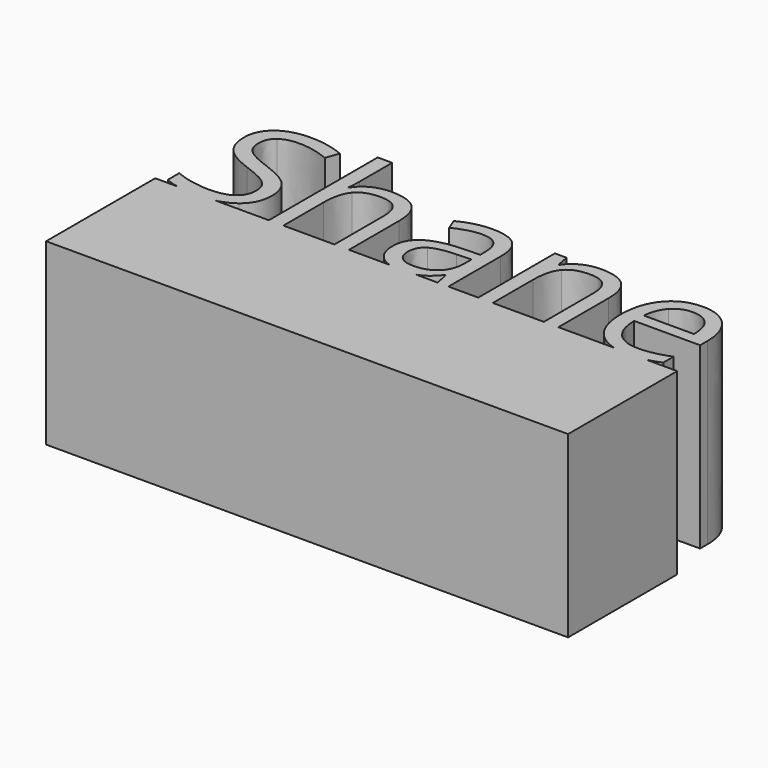
from build123d import *

# Parameters (mm, degrees)
F1_DEPTH = 25.4


with BuildPart() as f1:
    # F0 (on Top) → F1 (new body)
    with BuildSketch(Plane.XY):
        with BuildLine():
            Line((-26.5469699674, 38.6548305432), (-26.5469699674, 19.3547997624))
            Line((-26.5469699674, 19.3547997624), (-24.4871887674, 19.3547997624))
            Line((-24.4871887674, 19.3547997624), (-24.4871887674, 26.4628308396))
            add(Edge.make_bspline(
                [(-23.5009544164, 30.2807682468), (-24.4871887674, 29.1139557751), (-24.4871887674, 26.4628308396)],
                knots=[0, 0, 0, 1, 1, 1], degree=2))
            add(Edge.make_bspline(
                [(-20.3715951175, 31.4475807184), (-22.5147200654, 31.4475807184), (-23.5009544164, 30.2807682468)],
                knots=[0, 0, 0, 1, 1, 1], degree=2))
            add(Edge.make_bspline(
                [(-18.0002670501, 30.6280338633), (-18.7563139067, 31.4475807184), (-20.3715951175, 31.4475807184)],
                knots=[0, 0, 0, 1, 1, 1], degree=2))
            add(Edge.make_bspline(
                [(-17.2442201935, 28.1495495486), (-17.2442201935, 29.8084870083), (-18.0002670501, 30.6280338633)],
                knots=[0, 0, 0, 1, 1, 1], degree=2))
            Line((-17.2442201935, 28.1495495486), (-17.2442201935, 19.3547997624))
            Line((-17.2442201935, 19.3547997624), (-15.1844389936, 19.3547997624))
            Line((-15.1844389936, 19.3547997624), (-15.1844389936, 28.2209870469))
            add(Edge.make_bspline(
                [(-16.4326108382, 31.9853463304), (-15.1844389936, 30.8006744842), (-15.1844389936, 28.2209870469)],
                knots=[0, 0, 0, 1, 1, 1], degree=2))
            add(Edge.make_bspline(
                [(-20.1731576223, 33.1700181766), (-17.6807826829, 33.1700181766), (-16.4326108382, 31.9853463304)],
                knots=[0, 0, 0, 1, 1, 1], degree=2))
            add(Edge.make_bspline(
                [(-22.7330013101, 32.6064556903), (-21.6098450874, 33.1700181766), (-20.1731576223, 33.1700181766)],
                knots=[0, 0, 0, 1, 1, 1], degree=2))
            add(Edge.make_bspline(
                [(-24.463376268, 31.0626119778), (-23.8561575328, 32.042893204), (-22.7330013101, 32.6064556903)],
                knots=[0, 0, 0, 1, 1, 1], degree=2))
            Line((-24.463376268, 31.0626119778), (-24.586407515, 31.0626119778))
            add(Edge.make_bspline(
                [(-24.4871887674, 32.8128306852), (-24.4871887674, 31.7571432109), (-24.586407515, 31.0626119778)],
                knots=[0, 0, 0, 1, 1, 1], degree=2))
            Line((-24.4871887674, 32.8128306852), (-24.4871887674, 38.6548305432))
            Line((-24.4871887674, 38.6548305432), (-26.5469699674, 38.6548305432))
        make_face()
        with BuildLine():
            Line((-24.4871887674, 19.3547997624), (-26.5469699674, 19.3547997624))
            Line((-26.5469699674, 19.3547997624), (-34.0584343692, 19.3547997624))
            add(Edge.make_bspline(
                [(-34.0584343692, 19.3547997624), (-35.1123368285, 19.1047685184), (-36.3974072279, 19.1047685184)],
                knots=[0.5682703015, 0.5682703015, 0.5682703015, 1, 1, 1], degree=2))
            add(Edge.make_bspline(
                [(-36.3974072279, 19.1047685184), (-38.1625115919, 19.1047685184), (-39.4823222167, 19.3547997624)],
                knots=[0, 0, 0, 0.5477225575, 0.5477225575, 0.5477225575], degree=2))
            Line((-39.4823222167, 19.3547997624), (-42.6720008254, 19.3547997624))
            Line((-42.6720008254, 19.3547997624), (-42.6720008254, 0))
            Line((-42.6720008254, 0), (31.3943997025, 0))
            Line((31.3943997025, 0), (31.3943997025, 19.3547997624))
            Line((31.3943997025, 19.3547997624), (27.043242581, 19.3547997624))
            add(Edge.make_bspline(
                [(27.043242581, 19.3547997624), (26.9453276769, 19.3316753297), (26.8485912347, 19.3111435134)],
                knots=[0.9005120931, 0.9005120931, 0.9005120931, 1, 1, 1], degree=2))
            add(Edge.make_bspline(
                [(26.8485912347, 19.3111435134), (25.8762475084, 19.1047685184), (24.4990912918, 19.1047685184)],
                knots=[0, 0, 0, 1, 1, 1], degree=2))
            add(Edge.make_bspline(
                [(24.4990912918, 19.1047685184), (23.3879346484, 19.1047685184), (22.449315764, 19.3547997624)],
                knots=[0, 0, 0, 0.3688754729, 0.3688754729, 0.3688754729], degree=2))
            Line((22.449315764, 19.3547997624), (14.5295915342, 19.3547997624))
            Line((14.5295915342, 19.3547997624), (12.4698103342, 19.3547997624))
            Line((12.4698103342, 19.3547997624), (5.2268417603, 19.3547997624))
            Line((5.2268417603, 19.3547997624), (3.1670605604, 19.3547997624))
            Line((3.1670605604, 19.3547997624), (-1.0715643366, 19.3547997624))
            Line((-1.0715643366, 19.3547997624), (-2.5995330495, 19.3547997624))
            Line((-2.5995330495, 19.3547997624), (-5.6889779178, 19.3547997624))
            add(Edge.make_bspline(
                [(-5.6889779178, 19.3547997624), (-6.5351240118, 19.1047685184), (-7.6596891765, 19.1047685184)],
                knots=[0.2582329607, 0.2582329607, 0.2582329607, 1, 1, 1], degree=2))
            add(Edge.make_bspline(
                [(-7.6596891765, 19.1047685184), (-8.6483877667, 19.1047685184), (-9.427934746, 19.3547997624)],
                knots=[0, 0, 0, 0.4894320446, 0.4894320446, 0.4894320446], degree=2))
            Line((-9.427934746, 19.3547997624), (-15.1844389936, 19.3547997624))
            Line((-15.1844389936, 19.3547997624), (-17.2442201935, 19.3547997624))
            Line((-17.2442201935, 19.3547997624), (-24.4871887674, 19.3547997624))
        make_face()
        with BuildLine():
            add(Edge.make_bspline(
                [(-34.0584343692, 19.3547997624), (-35.1123368285, 19.1047685184), (-36.3974072279, 19.1047685184)],
                knots=[0.5682703015, 0.5682703015, 0.5682703015, 1, 1, 1], degree=2))
            Line((-34.0584343692, 19.3547997624), (-39.4823222167, 19.3547997624))
            add(Edge.make_bspline(
                [(-36.3974072279, 19.1047685184), (-38.1625115919, 19.1047685184), (-39.4823222167, 19.3547997624)],
                knots=[0, 0, 0, 0.5477225575, 0.5477225575, 0.5477225575], degree=2))
        make_face()
        with BuildLine():
            Line((-39.4823222167, 19.3547997624), (-34.0584343692, 19.3547997624))
            add(Edge.make_bspline(
                [(-31.6845167175, 20.4462059858), (-32.6712204006, 19.6839069118), (-34.0584343692, 19.3547997624)],
                knots=[0, 0, 0, 0.5682703015, 0.5682703015, 0.5682703015], degree=2))
            add(Edge.make_bspline(
                [(-29.9481886347, 24.1807996451), (-29.9481886347, 21.7876434532), (-31.6845167175, 20.4462059858)],
                knots=[0, 0, 0, 1, 1, 1], degree=2))
            add(Edge.make_bspline(
                [(-31.0197511086, 27.2049870716), (-29.9481886347, 26.0381745999), (-29.9481886347, 24.1807996451)],
                knots=[0, 0, 0, 1, 1, 1], degree=2))
            add(Edge.make_bspline(
                [(-34.9448447632, 29.3877995185), (-32.0913135826, 28.3717995432), (-31.0197511086, 27.2049870716)],
                knots=[0, 0, 0, 1, 1, 1], degree=2))
            add(Edge.make_bspline(
                [(-37.4689697019, 30.4970651165), (-36.6434697219, 29.9950182537), (-34.9448447632, 29.3877995185)],
                knots=[0, 0, 0, 1, 1, 1], degree=2))
            add(Edge.make_bspline(
                [(-38.6417352984, 31.6023619647), (-38.2944696818, 30.9991119793), (-37.4689697019, 30.4970651165)],
                knots=[0, 0, 0, 1, 1, 1], degree=2))
            add(Edge.make_bspline(
                [(-38.9890009149, 33.1462056771), (-38.9890009149, 32.20561195), (-38.6417352984, 31.6023619647)],
                knots=[0, 0, 0, 1, 1, 1], degree=2))
            add(Edge.make_bspline(
                [(-38.0464228128, 35.1424868786), (-38.9890009149, 34.4241431461), (-38.9890009149, 33.1462056771)],
                knots=[0, 0, 0, 1, 1, 1], degree=2))
            add(Edge.make_bspline(
                [(-35.4290322515, 35.8608306112), (-37.1038447108, 35.8608306112), (-38.0464228128, 35.1424868786)],
                knots=[0, 0, 0, 1, 1, 1], degree=2))
            add(Edge.make_bspline(
                [(-31.0634073576, 34.920236884), (-33.309719803, 35.8608306112), (-35.4290322515, 35.8608306112)],
                knots=[0, 0, 0, 1, 1, 1], degree=2))
            Line((-31.0634073576, 34.920236884), (-30.4045948736, 36.7537993394))
            add(Edge.make_bspline(
                [(-35.3774385027, 37.7459868153), (-32.6747198184, 37.7459868153), (-30.4045948736, 36.7537993394)],
                knots=[0, 0, 0, 1, 1, 1], degree=2))
            add(Edge.make_bspline(
                [(-39.5466102764, 36.5057524705), (-37.9730009396, 37.7459868153), (-35.3774385027, 37.7459868153)],
                knots=[0, 0, 0, 1, 1, 1], degree=2))
            add(Edge.make_bspline(
                [(-41.1202196131, 33.1700181766), (-41.1202196131, 35.2655181256), (-39.5466102764, 36.5057524705)],
                knots=[0, 0, 0, 1, 1, 1], degree=2))
            add(Edge.make_bspline(
                [(-40.0347665145, 29.9335026302), (-41.1202196131, 31.1737369751), (-41.1202196131, 33.1700181766)],
                knots=[0, 0, 0, 1, 1, 1], degree=2))
            add(Edge.make_bspline(
                [(-36.4212197273, 27.7883933074), (-38.9493134159, 28.6932682854), (-40.0347665145, 29.9335026302)],
                knots=[0, 0, 0, 1, 1, 1], degree=2))
            add(Edge.make_bspline(
                [(-33.7244541679, 26.6354714604), (-34.6114697713, 27.145455823), (-36.4212197273, 27.7883933074)],
                knots=[0, 0, 0, 1, 1, 1], degree=2))
            add(Edge.make_bspline(
                [(-32.4584229487, 25.5242214874), (-32.8374385645, 26.1254870978), (-33.7244541679, 26.6354714604)],
                knots=[0, 0, 0, 1, 1, 1], degree=2))
            add(Edge.make_bspline(
                [(-32.0794073329, 23.9823621499), (-32.0794073329, 24.922955877), (-32.4584229487, 25.5242214874)],
                knots=[0, 0, 0, 1, 1, 1], degree=2))
            add(Edge.make_bspline(
                [(-33.1470010569, 21.7539090791), (-32.0794073329, 22.5536121846), (-32.0794073329, 23.9823621499)],
                knots=[0, 0, 0, 1, 1, 1], degree=2))
            add(Edge.make_bspline(
                [(-36.3220009798, 20.9542059735), (-34.214594781, 20.9542059735), (-33.1470010569, 21.7539090791)],
                knots=[0, 0, 0, 1, 1, 1], degree=2))
            add(Edge.make_bspline(
                [(-38.9255009165, 21.2280497168), (-37.6118446984, 20.9542059735), (-36.3220009798, 20.9542059735)],
                knots=[0, 0, 0, 1, 1, 1], degree=2))
            add(Edge.make_bspline(
                [(-41.3583446073, 21.9702059488), (-40.2391571345, 21.5018934602), (-38.9255009165, 21.2280497168)],
                knots=[0, 0, 0, 1, 1, 1], degree=2))
            Line((-41.3583446073, 21.9702059488), (-41.3583446073, 19.9382059982))
            add(Edge.make_bspline(
                [(-39.4823222167, 19.3547997624), (-40.5721450947, 19.5612610264), (-41.3583446073, 19.9382059982)],
                knots=[0.5477225575, 0.5477225575, 0.5477225575, 1, 1, 1], degree=2))
        make_face()
        with BuildLine():
            add(Edge.make_bspline(
                [(-9.427934746, 19.3547997624), (-10.2411461241, 19.6156284973), (-10.8267515995, 20.1485497431)],
                knots=[0.4894320446, 0.4894320446, 0.4894320446, 1, 1, 1], degree=2))
            Line((-9.427934746, 19.3547997624), (-5.6889779178, 19.3547997624))
            add(Edge.make_bspline(
                [(-5.1335798629, 19.5591903824), (-5.3944072515, 19.4418436791), (-5.6889779178, 19.3547997624)],
                knots=[0, 0, 0, 0.2582329607, 0.2582329607, 0.2582329607], degree=2))
            add(Edge.make_bspline(
                [(-3.1075330371, 21.2915497153), (-4.1235330124, 20.0136122464), (-5.1335798629, 19.5591903824)],
                knots=[0, 0, 0, 1, 1, 1], degree=2))
            Line((-3.1075330371, 21.2915497153), (-3.0083142895, 21.2915497153))
            Line((-3.0083142895, 21.2915497153), (-2.5995330495, 19.3547997624))
            Line((-2.5995330495, 19.3547997624), (-1.0715643366, 19.3547997624))
            Line((-1.0715643366, 19.3547997624), (-1.0715643366, 28.6337370368))
            add(Edge.make_bspline(
                [(-2.2443299331, 32.0925025777), (-1.0715643366, 31.0149869789), (-1.0715643366, 28.6337370368)],
                knots=[0, 0, 0, 1, 1, 1], degree=2))
            add(Edge.make_bspline(
                [(-5.8459704705, 33.1700181766), (-3.4170955296, 33.1700181766), (-2.2443299331, 32.0925025777)],
                knots=[0, 0, 0, 1, 1, 1], degree=2))
            add(Edge.make_bspline(
                [(-8.2490485371, 32.8604556841), (-7.0524704412, 33.1700181766), (-5.8459704705, 33.1700181766)],
                knots=[0, 0, 0, 1, 1, 1], degree=2))
            add(Edge.make_bspline(
                [(-10.4497203586, 32.0071744548), (-9.445626633, 32.5508931916), (-8.2490485371, 32.8604556841)],
                knots=[0, 0, 0, 1, 1, 1], degree=2))
            Line((-10.4497203586, 32.0071744548), (-9.8147203741, 30.4315807431))
            add(Edge.make_bspline(
                [(-5.9729704675, 31.4713932178), (-7.6715954262, 31.4713932178), (-9.8147203741, 30.4315807431)],
                knots=[0, 0, 0, 1, 1, 1], degree=2))
            add(Edge.make_bspline(
                [(-3.770314271, 30.7093932364), (-4.4569080043, 31.4713932178), (-5.9729704675, 31.4713932178)],
                knots=[0, 0, 0, 1, 1, 1], degree=2))
            add(Edge.make_bspline(
                [(-3.0837205377, 28.3479870438), (-3.0837205377, 29.9473932549), (-3.770314271, 30.7093932364)],
                knots=[0, 0, 0, 1, 1, 1], degree=2))
            Line((-3.0837205377, 28.3479870438), (-3.0837205377, 27.5026433143))
            Line((-3.0837205377, 27.5026433143), (-5.3895642316, 27.4272370661))
            add(Edge.make_bspline(
                [(-11.9737203216, 23.113205921), (-11.9737203216, 27.228799571), (-5.3895642316, 27.4272370661)],
                knots=[0, 0, 0, 1, 1, 1], degree=2))
            add(Edge.make_bspline(
                [(-10.8267515995, 20.1485497431), (-11.9737203216, 21.1923309677), (-11.9737203216, 23.113205921)],
                knots=[0, 0, 0, 1, 1, 1], degree=2))
        make_face()
        with BuildLine():
            add(Edge.make_bspline(
                [(-7.2509079364, 20.8073622271), (-5.3260642332, 20.8073622271), (-4.2287048849, 21.8610653264)],
                knots=[0, 0, 0, 1, 1, 1], degree=2))
            add(Edge.make_bspline(
                [(-9.1400328905, 21.3887840879), (-8.4653454069, 20.8073622271), (-7.2509079364, 20.8073622271)],
                knots=[0, 0, 0, 1, 1, 1], degree=2))
            add(Edge.make_bspline(
                [(-9.8147203741, 23.0893934216), (-9.8147203741, 21.9702059488), (-9.1400328905, 21.3887840879)],
                knots=[0, 0, 0, 1, 1, 1], degree=2))
            add(Edge.make_bspline(
                [(-8.7312516504, 25.1908464955), (-9.8147203741, 24.514174637), (-9.8147203741, 23.0893934216)],
                knots=[0, 0, 0, 1, 1, 1], degree=2))
            add(Edge.make_bspline(
                [(-5.1911267365, 25.9548308519), (-7.6477829267, 25.8675183541), (-8.7312516504, 25.1908464955)],
                knots=[0, 0, 0, 1, 1, 1], degree=2))
            Line((-5.1911267365, 25.9548308519), (-3.1313455365, 26.0381745999))
            Line((-3.1313455365, 26.0381745999), (-3.1313455365, 24.8118308797))
            add(Edge.make_bspline(
                [(-4.2287048849, 21.8610653264), (-3.1313455365, 22.9147684258), (-3.1313455365, 24.8118308797)],
                knots=[0, 0, 0, 1, 1, 1], degree=2))
        make_face(mode=Mode.SUBTRACT)
        with BuildLine():
            Line((-5.6889779178, 19.3547997624), (-9.427934746, 19.3547997624))
            add(Edge.make_bspline(
                [(-7.6596891765, 19.1047685184), (-8.6483877667, 19.1047685184), (-9.427934746, 19.3547997624)],
                knots=[0, 0, 0, 0.4894320446, 0.4894320446, 0.4894320446], degree=2))
            add(Edge.make_bspline(
                [(-5.6889779178, 19.3547997624), (-6.5351240118, 19.1047685184), (-7.6596891765, 19.1047685184)],
                knots=[0.2582329607, 0.2582329607, 0.2582329607, 1, 1, 1], degree=2))
        make_face()
        with BuildLine():
            add(Edge.make_bspline(
                [(27.043242581, 19.3547997624), (26.9453276769, 19.3316753297), (26.8485912347, 19.3111435134)],
                knots=[0.9005120931, 0.9005120931, 0.9005120931, 1, 1, 1], degree=2))
            Line((27.043242581, 19.3547997624), (22.449315764, 19.3547997624))
            add(Edge.make_bspline(
                [(24.4990912918, 19.1047685184), (23.3879346484, 19.1047685184), (22.449315764, 19.3547997624)],
                knots=[0, 0, 0, 0.3688754729, 0.3688754729, 0.3688754729], degree=2))
            add(Edge.make_bspline(
                [(26.8485912347, 19.3111435134), (25.8762475084, 19.1047685184), (24.4990912918, 19.1047685184)],
                knots=[0, 0, 0, 1, 1, 1], degree=2))
        make_face()
        with BuildLine():
            Line((22.449315764, 19.3547997624), (27.043242581, 19.3547997624))
            add(Edge.make_bspline(
                [(28.9123411846, 19.985830997), (27.9295166819, 19.5641099377), (27.043242581, 19.3547997624)],
                knots=[0, 0, 0, 0.9005120931, 0.9005120931, 0.9005120931], degree=2))
            Line((28.9123411846, 19.985830997), (28.9123411846, 21.8233622024))
            add(Edge.make_bspline(
                [(24.57449754, 20.9065809746), (26.7692162367, 20.9065809746), (28.9123411846, 21.8233622024)],
                knots=[0, 0, 0, 1, 1, 1], degree=2))
            add(Edge.make_bspline(
                [(21.3439351185, 22.1468153195), (22.4909038407, 20.9065809746), (24.57449754, 20.9065809746)],
                knots=[0, 0, 0, 1, 1, 1], degree=2))
            add(Edge.make_bspline(
                [(20.133466398, 25.7802058562), (20.1969663964, 23.3870496644), (21.3439351185, 22.1468153195)],
                knots=[0, 0, 0, 1, 1, 1], degree=2))
            Line((20.133466398, 25.7802058562), (29.4957474204, 25.7802058562))
            Line((29.4957474204, 25.7802058562), (29.4957474204, 27.0819558245))
            add(Edge.make_bspline(
                [(28.0074662066, 31.5170338417), (29.4957474204, 29.8362682576), (29.4957474204, 27.0819558245)],
                knots=[0, 0, 0, 1, 1, 1], degree=2))
            add(Edge.make_bspline(
                [(23.9672788048, 33.1977994259), (26.5191849927, 33.1977994259), (28.0074662066, 31.5170338417)],
                knots=[0, 0, 0, 1, 1, 1], degree=2))
            add(Edge.make_bspline(
                [(19.6175289105, 31.2630338479), (21.2367788711, 33.1977994259), (23.9672788048, 33.1977994259)],
                knots=[0, 0, 0, 1, 1, 1], degree=2))
            add(Edge.make_bspline(
                [(17.9982789499, 26.0381745999), (17.9982789499, 29.3282682699), (19.6175289105, 31.2630338479)],
                knots=[0, 0, 0, 1, 1, 1], degree=2))
            add(Edge.make_bspline(
                [(19.7425445325, 20.9422997238), (17.9982789499, 22.7798309291), (17.9982789499, 26.0381745999)],
                knots=[0, 0, 0, 1, 1, 1], degree=2))
            add(Edge.make_bspline(
                [(22.449315764, 19.3547997624), (20.8433933235, 19.7825887107), (19.7425445325, 20.9422997238)],
                knots=[0.3688754729, 0.3688754729, 0.3688754729, 1, 1, 1], degree=2))
        make_face()
        with BuildLine():
            add(Edge.make_bspline(
                [(23.9394975555, 31.4713932178), (22.3043725952, 31.4713932178), (21.3300444939, 30.4057838687)],
                knots=[0, 0, 0, 1, 1, 1], degree=2))
            add(Edge.make_bspline(
                [(26.4219506201, 30.435549493), (25.5547787662, 31.4713932178), (23.9394975555, 31.4713932178)],
                knots=[0, 0, 0, 1, 1, 1], degree=2))
            add(Edge.make_bspline(
                [(27.289122474, 27.4550183155), (27.289122474, 29.3997057682), (26.4219506201, 30.435549493)],
                knots=[0, 0, 0, 1, 1, 1], degree=2))
            Line((27.289122474, 27.4550183155), (20.1810913968, 27.4550183155))
            add(Edge.make_bspline(
                [(21.3300444939, 30.4057838687), (20.3557163926, 29.3401745197), (20.1810913968, 27.4550183155)],
                knots=[0, 0, 0, 1, 1, 1], degree=2))
        make_face(mode=Mode.SUBTRACT)
        with BuildLine():
            Line((3.1670605604, 32.947768182), (3.1670605604, 19.3547997624))
            Line((3.1670605604, 19.3547997624), (5.2268417603, 19.3547997624))
            Line((5.2268417603, 19.3547997624), (5.2268417603, 26.486643339))
            add(Edge.make_bspline(
                [(6.2190292362, 30.2946588715), (5.2268417603, 29.1417370245), (5.2268417603, 26.486643339)],
                knots=[0, 0, 0, 1, 1, 1], degree=2))
            add(Edge.make_bspline(
                [(9.3424354103, 31.4475807184), (7.2112167121, 31.4475807184), (6.2190292362, 30.2946588715)],
                knots=[0, 0, 0, 1, 1, 1], degree=2))
            add(Edge.make_bspline(
                [(11.7137634776, 30.6280338633), (10.957716621, 31.4475807184), (9.3424354103, 31.4475807184)],
                knots=[0, 0, 0, 1, 1, 1], degree=2))
            add(Edge.make_bspline(
                [(12.4698103342, 28.1495495486), (12.4698103342, 29.8084870083), (11.7137634776, 30.6280338633)],
                knots=[0, 0, 0, 1, 1, 1], degree=2))
            Line((12.4698103342, 28.1495495486), (12.4698103342, 19.3547997624))
            Line((12.4698103342, 19.3547997624), (14.5295915342, 19.3547997624))
            Line((14.5295915342, 19.3547997624), (14.5295915342, 28.2209870469))
            add(Edge.make_bspline(
                [(13.2893571893, 32.0131275797), (14.5295915342, 30.8284557335), (14.5295915342, 28.2209870469)],
                knots=[0, 0, 0, 1, 1, 1], degree=2))
            add(Edge.make_bspline(
                [(9.5924666542, 33.1977994259), (12.0491228445, 33.1977994259), (13.2893571893, 32.0131275797)],
                knots=[0, 0, 0, 1, 1, 1], degree=2))
            add(Edge.make_bspline(
                [(7.050482341, 32.6441588143), (8.1914979382, 33.1977994259), (9.5924666542, 33.1977994259)],
                knots=[0, 0, 0, 1, 1, 1], degree=2))
            add(Edge.make_bspline(
                [(5.2744667591, 31.0864244772), (5.9094667437, 32.0905182028), (7.050482341, 32.6441588143)],
                knots=[0, 0, 0, 1, 1, 1], degree=2))
            Line((5.2744667591, 31.0864244772), (5.1752480116, 31.0864244772))
            Line((5.1752480116, 31.0864244772), (4.8418730197, 32.947768182))
            Line((4.8418730197, 32.947768182), (3.1670605604, 32.947768182))
        make_face()
    extrude(amount=F1_DEPTH)


solid = f1.part
